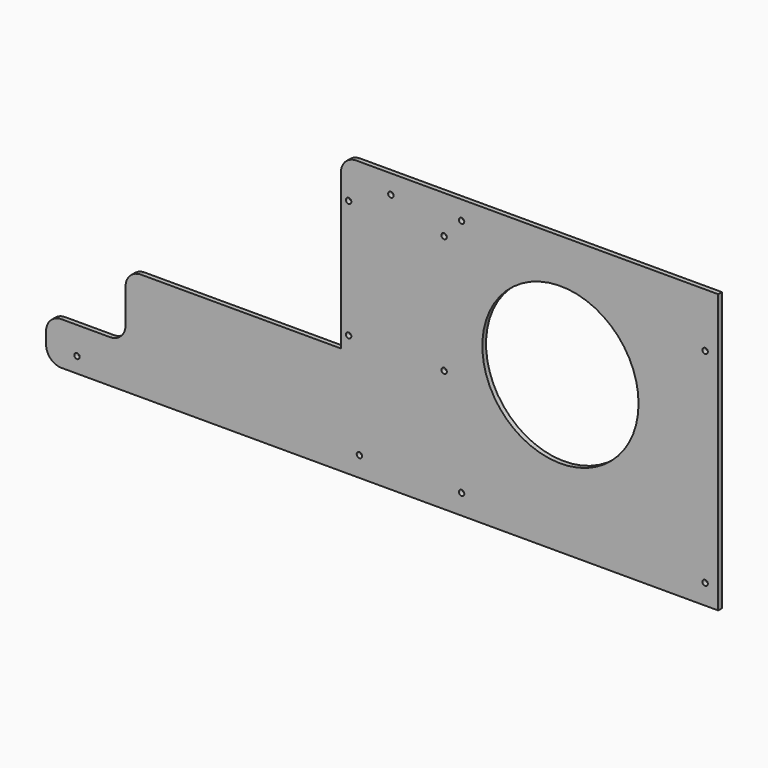
from build123d import *

# Parameters (mm, degrees)
F0_R     = 1.75
F0_R_2   = 50.5
F1_DEPTH = 3
F2_R     = 10


with BuildPart() as f1:
    # F0 (on Front) → F1 (new body)
    with BuildSketch(Plane.XZ):
        Polygon((-163.4899072428, -51.1730337228), (-163.4899072428, -78.8674137379), (271.059090722, -78.8674137379), (271.059090722, 101.1325862621), (27.1199446917, 101.1325862621), (27.1199446917, 99.1325862621), (269.059090722, 99.1325862621), (269.059090722, -73.8674137379), (25.219090722, -73.8674137379), (25.219090722, -9.0723959729), (-112.1105003357, -9.0723959729), (-112.1105003357, -51.1730337228), (-127.4899072428, -51.1730337228), (-157.4899072428, -51.1730337228), align=None)
        with Locations((-143.4899072428, -68.8674137379)):
            Circle(F0_R, mode=Mode.SUBTRACT)
        Polygon((269.059090722, 99.1325862621), (27.1199446917, 99.1325862621), (27.1199446917, -9.0723959729), (25.219090722, -9.0723959729), (25.219090722, -73.8674137379), (269.059090722, -73.8674137379), align=None)
        with Locations((39.099090722, -65.8674137379)):
            Circle(F0_R, mode=Mode.SUBTRACT)
        with Locations((105.139090722, -65.8674137379)):
            Circle(F0_R, mode=Mode.SUBTRACT)
        with Locations((262.619090722, -65.8674137379)):
            Circle(F0_R, mode=Mode.SUBTRACT)
        with BuildLine():
            ThreePointArc((32.1199446917, 74.8078526185), (30.8825078246, 77.7952894856), (33.8699446917, 76.5578526185))
            Line((33.8699446917, 76.5578526185), (92.0899446917, 76.5578526185))
            ThreePointArc((92.0899446917, 76.5578526185), (93.8399446917, 78.3078526185), (95.5899446917, 76.5578526185))
            ThreePointArc((95.5899446917, 76.5578526185), (95.0773815587, 75.3204157515), (93.8399446917, 74.8078526185))
            Line((93.8399446917, 74.8078526185), (93.8399446917, 1.7078526185))
            ThreePointArc((93.8399446917, 1.7078526185), (95.0773815587, 1.1952894856), (95.5899446917, -0.0421473815))
            ThreePointArc((95.5899446917, -0.0421473815), (93.8399446917, -1.7921473815), (92.0899446917, -0.0421473815))
            Line((92.0899446917, -0.0421473815), (33.8699446917, -0.0421473815))
            ThreePointArc((33.8699446917, -0.0421473815), (30.8825078246, -1.2795842485), (32.1199446917, 1.7078526185))
            Line((32.1199446917, 1.7078526185), (32.1199446917, 74.8078526185))
        make_face(mode=Mode.SUBTRACT)
        with Locations((169.059090722, 22.1325862621)):
            Circle(F0_R_2, mode=Mode.SUBTRACT)
        with Locations((59.419090722, 88.9725862621)):
            Circle(F0_R, mode=Mode.SUBTRACT)
        with Locations((105.139090722, 88.9725862621)):
            Circle(F0_R, mode=Mode.SUBTRACT)
        with Locations((262.619090722, 66.1225862621)):
            Circle(F0_R, mode=Mode.SUBTRACT)
        with BuildLine():
            Line((92.0899446917, 76.5578526185), (33.8699446917, 76.5578526185))
            ThreePointArc((33.8699446917, 76.5578526185), (33.3573815587, 75.3204157515), (32.1199446917, 74.8078526185))
            Line((32.1199446917, 74.8078526185), (32.1199446917, 1.7078526185))
            ThreePointArc((32.1199446917, 1.7078526185), (33.3573815587, 1.1952894856), (33.8699446917, -0.0421473815))
            Line((33.8699446917, -0.0421473815), (92.0899446917, -0.0421473815))
            ThreePointArc((92.0899446917, -0.0421473815), (92.6025078246, 1.1952894856), (93.8399446917, 1.7078526185))
            Line((93.8399446917, 1.7078526185), (93.8399446917, 74.8078526185))
            ThreePointArc((93.8399446917, 74.8078526185), (92.6025078246, 75.3204157515), (92.0899446917, 76.5578526185))
        make_face()
    extrude(amount=F1_DEPTH)

    # F2
    f2_edges = [f1.edges().sort_by_distance(p)[0] for p in [
        (-163.489907, -1.5, -51.173034),
        (-112.1105, -1.5, -9.072396),
        (-112.1105, -1.5, -51.173034),
        (-163.489907, -1.5, -78.867414),
        (27.119945, -1.5, 101.132586),
    ]]
    fillet(f2_edges, radius=F2_R)


solid = f1.part
